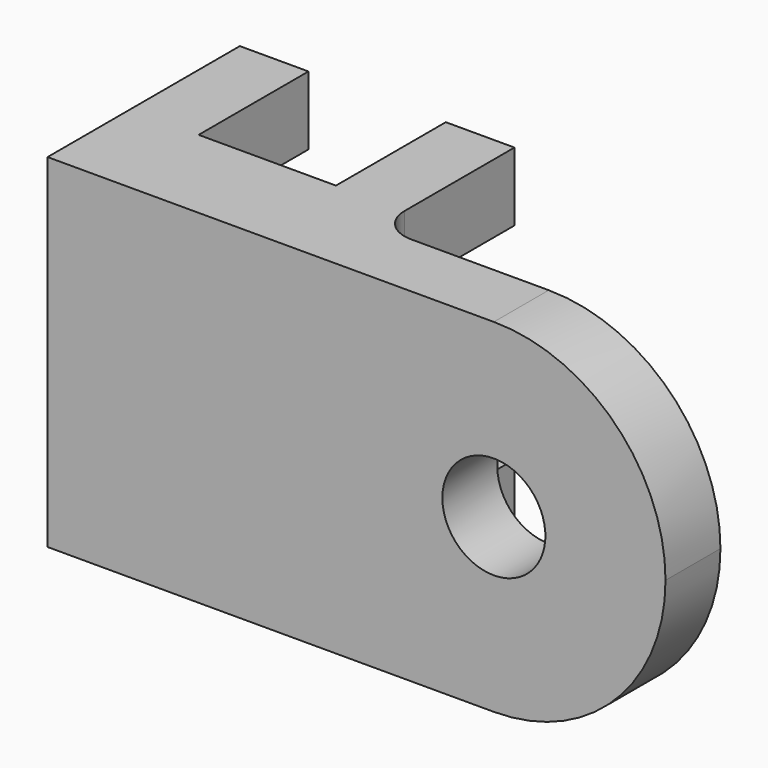
from build123d import *

# Parameters (mm, degrees)
F1_DEPTH = 63.5
F3_DEPTH = 12.7
F4_R     = 9.525
F5_DEPTH = 25.4
F6_W     = 19.05
F6_H     = 38.1
F7_DEPTH = 25.4
F8_W     = 19.05
F8_H     = 38.1
F9_DEPTH = 25.4
F10_R    = 6.35


with BuildPart() as f1:
    # F0 (on Top) → F1 (new body)
    with BuildSketch(Plane.XY):
        Polygon((-25.299002, 20.161893), (-37.999002, 20.161893), (-37.999002, -24.288107), (44.550998, -24.288107), (44.550998, -11.588107), (12.800998, -11.588107), (12.800998, 20.161893), (0.100998, 20.161893), (0.100998, -5.238107), (-25.299002, -5.238107), align=None)
    extrude(amount=F1_DEPTH)

    # F2 (on face) → F3 (join)
    with BuildSketch(Plane.XZ.offset(24.288107)):
        with BuildLine():
            Line((44.550998, 0), (44.550998, 63.5))
            ThreePointArc((44.550998, 63.5), (12.800998, 31.75), (44.550998, 0))
        make_face()
        with BuildLine():
            ThreePointArc((44.550998, 0), (67.001639, 9.29936), (76.300998, 31.75))
            ThreePointArc((76.300998, 31.75), (67.001639, 54.20064), (44.550998, 63.5))
            Line((44.550998, 63.5), (44.550998, 0))
        make_face()
    extrude(amount=-F3_DEPTH)

    # F4 (on face) → F5 (cut)
    with BuildSketch(Plane(origin=(0, -11.588107, 0), x_dir=(-1, 0, 0), z_dir=(0, 1, 0))):
        with Locations((-44.550998, 31.75)):
            Circle(F4_R)
    extrude(amount=-F5_DEPTH, mode=Mode.SUBTRACT)

    # F6 (on face) → F7 (cut)
    with BuildSketch(Plane.YZ.offset(12.800998)):
        with Locations((10.636893, 31.75)):
            Rectangle(F6_W, F6_H)
    extrude(amount=-F7_DEPTH, mode=Mode.SUBTRACT)

    # F8 (on face) → F9 (cut)
    with BuildSketch(Plane.YZ.offset(-25.299002)):
        with Locations((10.636893, 31.75)):
            Rectangle(F8_W, F8_H)
    extrude(amount=-F9_DEPTH, mode=Mode.SUBTRACT)

    # F10
    f10_edges = [f1.edges().sort_by_distance(p)[0] for p in [
        (12.800998, -11.588107, 31.75),
    ]]
    fillet(f10_edges, radius=F10_R)


solid = f1.part
